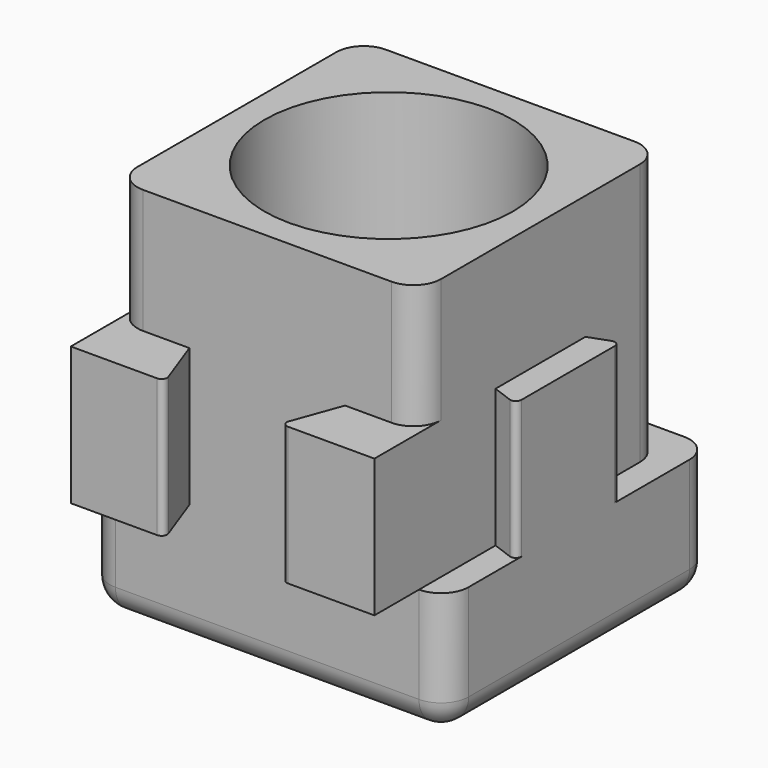
from build123d import *

# Parameters (mm, degrees)
F1_DEPTH = 35
F2_DEPTH = 12.5
F3_W     = 55
F3_H     = 55
F4_DEPTH = 22.5
F5_R     = 22.5
F6_DEPTH = 60
F7_R     = 5
F8_R     = 1


with BuildPart() as f1:
    # F0 (on Top) → F1 (new body, symmetric)
    with BuildSketch(Plane.XY):
        Polygon((-10.1801488287, 27.5), (-27.5, 27.5), (-27.5, 10.1801488287), (-27.5, -10.1801488287), (-27.5, -27.5), (-14.1, -27.5), (14.1, -27.5), (27.5, -27.5), (27.5, -10.1801488287), (27.5, 10.1801488287), (27.5, 27.5), (10.1801488287, 27.5), align=None)
    extrude(amount=F1_DEPTH, both=True)

    # F0 (on Top) → F2 (join, symmetric)
    with BuildSketch(Plane.XY):
        Polygon((-12, 32.5), (-10.1801488287, 27.5), (10.1801488287, 27.5), (12, 32.5), align=None)
        Polygon((-27.5, -10.1801488287), (-27.5, 10.1801488287), (-32.5, 12), (-32.5, -12), align=None)
        Polygon((-14.1, -27.5), (-27.5, -27.5), (-27.5, -37.6), (-10.4239006339, -37.6), align=None)
        Polygon((27.5, -27.5), (14.1, -27.5), (10.4239006339, -37.6), (27.5, -37.6), align=None)
        Polygon((32.5, 12), (27.5, 10.1801488287), (27.5, -10.1801488287), (32.5, -12), align=None)
    extrude(amount=F2_DEPTH, both=True)

    # F3 (on face) → F4 (join, through all)
    with BuildSketch(Plane(origin=(0, 0, -35), x_dir=(1, 0, 0), z_dir=(0, 0, -1))):
        Rectangle(F3_W, F3_H)
        Polygon((27.5, 27.5), (27.5, -27.5), (-27.5, -27.5), (-27.5, 27.5), (-32.5, 27.5), (-32.5, -32.5), (32.5, -32.5), (32.5, 27.5), align=None)
    extrude(amount=-F4_DEPTH)

    # F5 (on face) → F6 (cut)
    with BuildSketch(Plane.XY.offset(35)):
        Circle(F5_R)
    extrude(amount=-F6_DEPTH, mode=Mode.SUBTRACT)

    # F7
    f7_edges = [f1.edges().sort_by_distance(p)[0] for p in [
        (-27.5, -27.5, 23.75),
        (-32.5, -27.5, -23.75),
        (27.5, -27.5, 23.75),
        (32.5, -27.5, -23.75),
        (27.5, 27.5, 11.25),
        (32.5, 32.5, -23.75),
        (-27.5, 27.5, 11.25),
        (-32.5, 32.5, -23.75),
        (0, -27.5, -35),
        (0, 32.5, -35),
        (32.5, 2.5, -35),
        (-32.5, 2.5, -35),
    ]]
    fillet(f7_edges, radius=F7_R)

    # F8
    f8_edges = [f1.edges().sort_by_distance(p)[0] for p in [
        (32.5, 12, 0),
        (32.5, -12, 0),
        (10.423901, -37.6, 0),
        (-10.423901, -37.6, 0),
        (-32.5, -12, 0),
        (-32.5, 12, 0),
        (-12, 32.5, 0),
        (12, 32.5, 0),
    ]]
    fillet(f8_edges, radius=F8_R)


solid = f1.part
